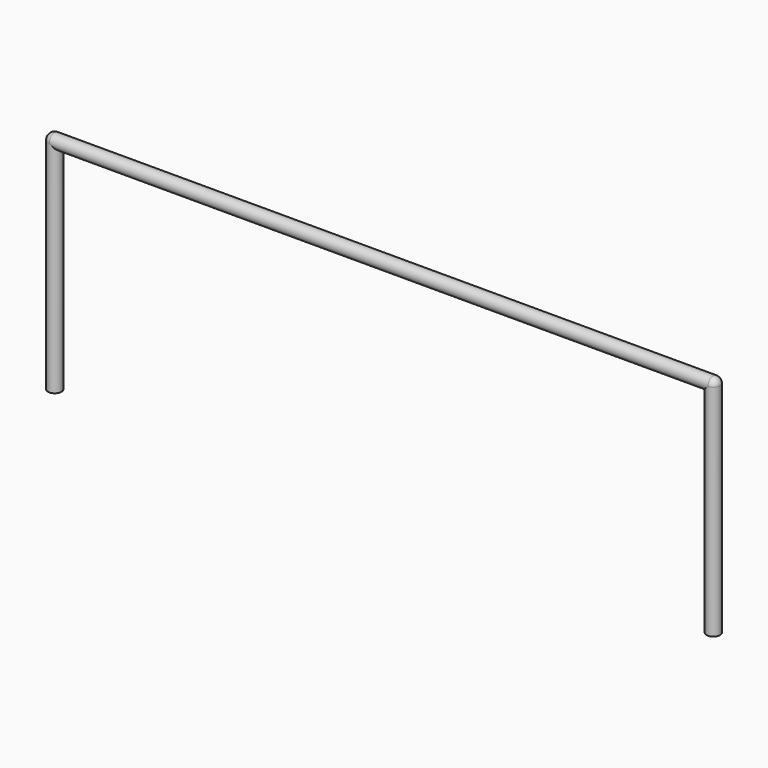
from build123d import *

# Parameters (mm, degrees)
CYLINDER002_R     = 75
CYLINDER002_DEPTH = 7320
CYLINDER001_R     = 75
CYLINDER001_DEPTH = 2440
CYLINDER_R        = 75
CYLINDER_DEPTH    = 2440


with BuildPart() as sphere001:
    # Sphere001 → Sphere001 (revolve)
    with BuildSketch(Plane(origin=(3660, 0, 2440), x_dir=(1, 0, 0), z_dir=(0, -1, 0))):
        with BuildLine():
            ThreePointArc((0, -75), (75, 0), (0, 75))
            Line((0, 75), (0, -75))
        make_face()
    revolve(axis=Axis((3660, 0, 2440), (0, 0, 1)))


with BuildPart() as cylinder002:
    # Cylinder002 → Cylinder002 (new body)
    with BuildSketch(Plane(origin=(-3660, 0, 2440), x_dir=(0, 0, -1), z_dir=(1, 0, 0))):
        Circle(CYLINDER002_R)
    extrude(amount=CYLINDER002_DEPTH)


with BuildPart() as cylinder001:
    # Cylinder001 → Cylinder001 (new body)
    with BuildSketch(Plane(origin=(3660, 0, 0), x_dir=(1, 0, 0), z_dir=(0, 0, 1))):
        Circle(CYLINDER001_R)
    extrude(amount=CYLINDER001_DEPTH)


with BuildPart() as cylinder:
    # Cylinder → Cylinder (new body)
    with BuildSketch(Plane(origin=(-3660, 0, 0), x_dir=(1, 0, 0), z_dir=(0, 0, 1))):
        Circle(CYLINDER_R)
    extrude(amount=CYLINDER_DEPTH)


with BuildPart() as fusion:
    # Sphere002 → Sphere002 (revolve)
    with BuildSketch(Plane(origin=(-3660, 0, 2440), x_dir=(1, 0, 0), z_dir=(0, -1, 0))):
        with BuildLine():
            ThreePointArc((0, -75), (75, 0), (0, 75))
            Line((0, 75), (0, -75))
        make_face()
    revolve(axis=Axis((-3660, 0, 2440), (0, 0, 1)))

    # Fusion: union Sphere001, Cylinder002, Cylinder001, Cylinder
    add(sphere001.part)
    add(cylinder002.part)
    add(cylinder001.part)
    add(cylinder.part)


with BuildPart() as fusion_1:
    # Fusion placement: moved
    add(fusion.part.moved(Location((0, 20000, 0))))


solid = fusion_1.part
